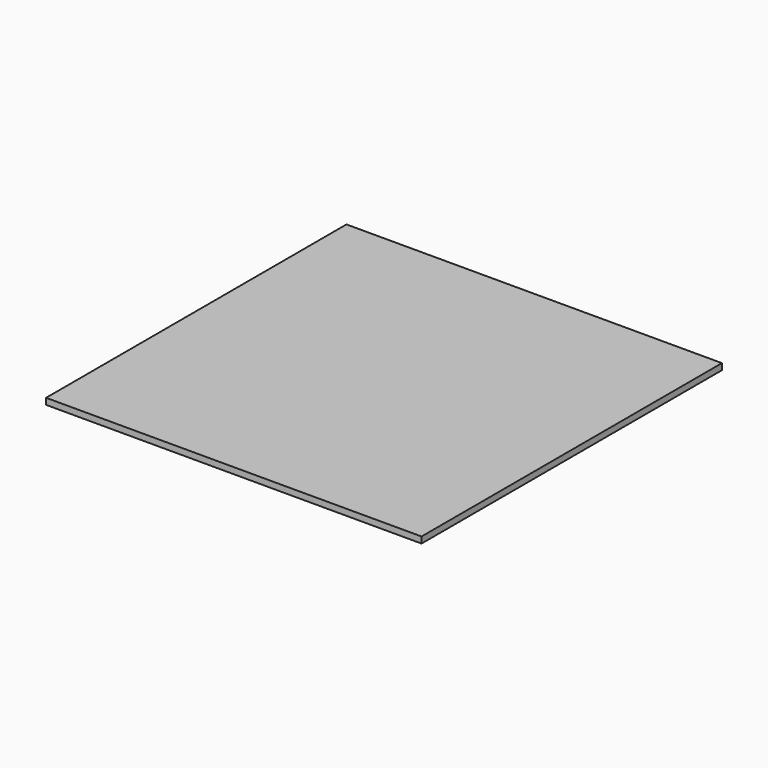
from build123d import *

# Parameters (mm, degrees)
SKETCH_W  = 180
SKETCH_H  = 180
PAD_DEPTH = 3


with BuildPart() as part:
    # Sketch → Pad (new body)
    with BuildSketch(Plane.XY):
        Rectangle(SKETCH_W, SKETCH_H)
    extrude(amount=-PAD_DEPTH)


solid = part.part
